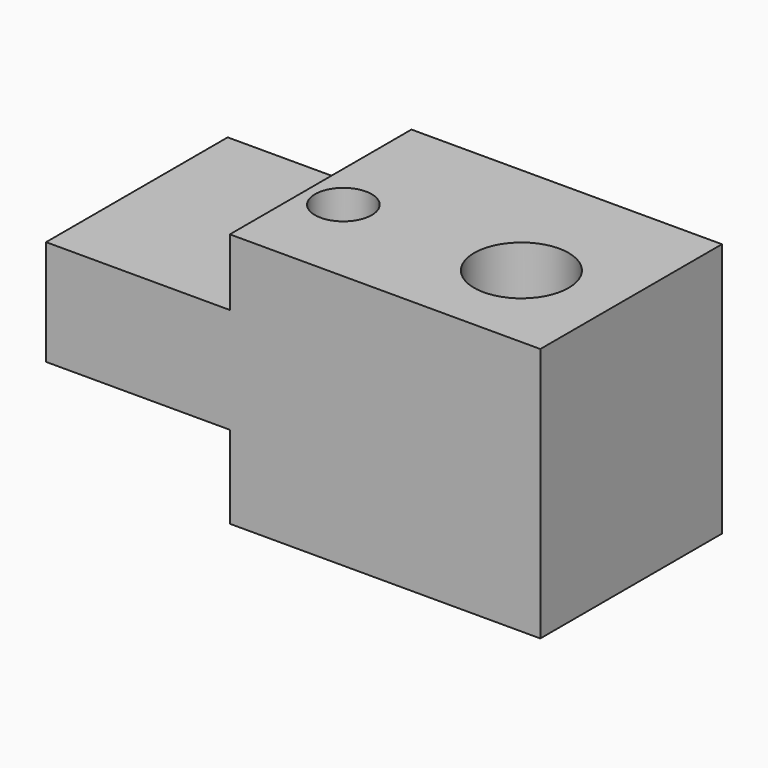
from build123d import *

# Parameters (mm, degrees)
F1_DEPTH = 76.2
F2_R     = 15.875
F2_R_2   = 9.525
F3_DEPTH = 85.540649


with BuildPart() as f1:
    # F0 (on Front) → F1 (new body)
    with BuildSketch(Plane.XZ):
        Polygon((60.468383, 42.893227), (-43.753549, 42.893227), (-43.753549, 20.524839), (-105.450973, 20.524839), (-105.450973, -14.87129), (-43.753549, -14.87129), (-43.753549, -42.647421), (60.468383, -42.647421), align=None)
        Polygon((60.468383, 42.893227), (-43.753549, 42.893227), (-43.753549, 20.524839), (-105.450973, 20.524839), (-105.450973, -14.87129), (-43.753549, -14.87129), (-43.753549, -42.647421), (60.468383, -42.647421), align=None)
    extrude(amount=F1_DEPTH)

    # F2 (on face) → F3 (cut, through all)
    with BuildSketch(Plane.XY.offset(42.893227)):
        with Locations((28.718383, -44.45)):
            Circle(F2_R)
        with Locations((-31.053549, -44.45)):
            Circle(F2_R_2)
    extrude(amount=-F3_DEPTH, mode=Mode.SUBTRACT)


solid = f1.part
